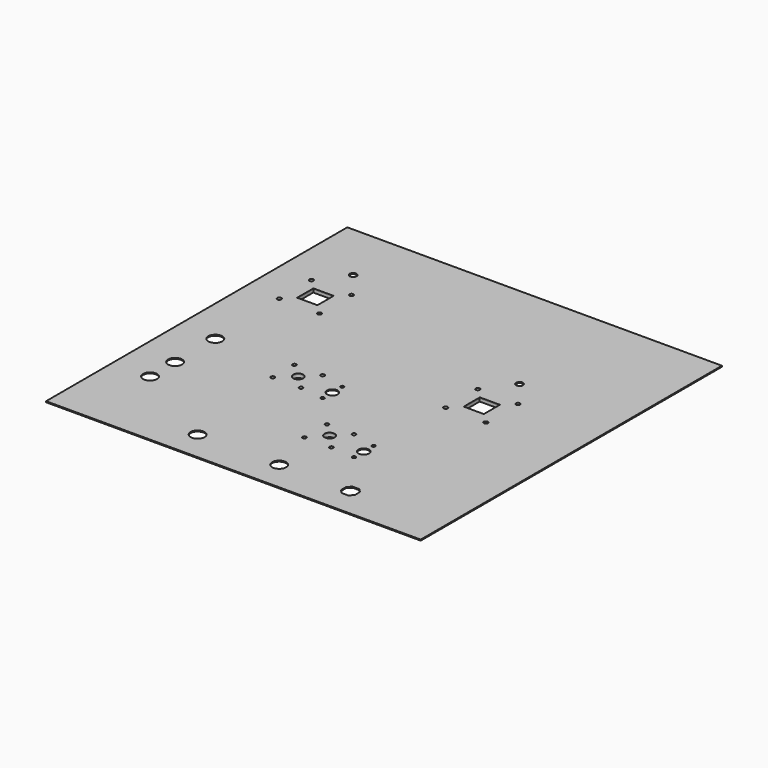
from build123d import *

# Parameters (mm, degrees)
F0_W     = 597
F0_H     = 600
F0_R     = 11.15
F0_R_2   = 2.75
F0_R_3   = 3
F0_R_4   = 8
F0_R_5   = 8.5
F0_R_6   = 3.3
F0_W_2   = 32.3
F0_H_2   = 32.3
F0_R_7   = 5.5
F0_W_3   = 32
F0_H_3   = 32
F1_DEPTH = 1.6
F2_R     = 3
F2_R_2   = 8.5
F2_R_3   = 3.3
F2_W     = 34
F2_H     = 34
F3_DEPTH = 5
F4_R     = 3.3
F4_W     = 34.3
F4_H     = 34.3
F4_R_2   = 3
F4_R_3   = 8.5
F5_DEPTH = 5


with BuildPart() as f1:
    # F0 (on Top) → F1 (new body)
    with BuildSketch(Plane.XY):
        Rectangle(F0_W, F0_H)
        with Locations((-239.0813, -167.15)):
            Circle(F0_R, mode=Mode.SUBTRACT)
        with Locations((-95.05, -252.5)):
            Circle(F0_R, mode=Mode.SUBTRACT)
        with Locations((-239.0813, -117.15)):
            Circle(F0_R, mode=Mode.SUBTRACT)
        with Locations((-239.0813, -37.15)):
            Circle(F0_R, mode=Mode.SUBTRACT)
        with Locations((-35.05, -78.5)):
            Circle(F0_R_2, mode=Mode.SUBTRACT)
        with Locations((-118.4, -73.5)):
            Circle(F0_R_3, mode=Mode.SUBTRACT)
        with Locations((-95.05, -52)):
            Circle(F0_R_4, mode=Mode.SUBTRACT)
        with Locations((-118.4, -30.5)):
            Circle(F0_R_3, mode=Mode.SUBTRACT)
        with Locations((-73.4, -73.5)):
            Circle(F0_R_3, mode=Mode.SUBTRACT)
        with Locations((-35.05, -59)):
            Circle(F0_R_5, mode=Mode.SUBTRACT)
        with Locations((-35.05, -39.5)):
            Circle(F0_R_2, mode=Mode.SUBTRACT)
        with Locations((-73.4, -30.5)):
            Circle(F0_R_3, mode=Mode.SUBTRACT)
        with Locations((34.95, -252.5)):
            Circle(F0_R, mode=Mode.SUBTRACT)
        Polygon((159.5, -247.236544), (159.5, -257.763456), (153.763456, -263.5), (143.236544, -263.5), (137.5, -257.763456), (137.5, -247.236544), (143.236544, -241.5), (153.763456, -241.5), align=None, mode=Mode.SUBTRACT)
        with Locations((13.45, -175.35)):
            Circle(F0_R_3, mode=Mode.SUBTRACT)
        with Locations((34.95, -152)):
            Circle(F0_R_4, mode=Mode.SUBTRACT)
        with Locations((56.45, -175.35)):
            Circle(F0_R_3, mode=Mode.SUBTRACT)
        with Locations((94.95, -178.5)):
            Circle(F0_R_2, mode=Mode.SUBTRACT)
        with Locations((94.95, -159)):
            Circle(F0_R_5, mode=Mode.SUBTRACT)
        with Locations((13.45, -130.35)):
            Circle(F0_R_3, mode=Mode.SUBTRACT)
        with Locations((56.45, -130.35)):
            Circle(F0_R_3, mode=Mode.SUBTRACT)
        with Locations((94.95, -139.5)):
            Circle(F0_R_2, mode=Mode.SUBTRACT)
        with Locations((100.7, -3)):
            Circle(F0_R_6, mode=Mode.SUBTRACT)
        with Locations((164.7, -3)):
            Circle(F0_R_6, mode=Mode.SUBTRACT)
        with Locations((-244.5, 97)):
            Circle(F0_R_6, mode=Mode.SUBTRACT)
        with Locations((-180.5, 97)):
            Circle(F0_R_6, mode=Mode.SUBTRACT)
        with Locations((-212.5, 129)):
            Rectangle(F0_W_2, F0_H_2, mode=Mode.SUBTRACT)
        with Locations((-244.5, 161)):
            Circle(F0_R_6, mode=Mode.SUBTRACT)
        with Locations((-180.5, 161)):
            Circle(F0_R_6, mode=Mode.SUBTRACT)
        with Locations((-212.5, 204.15)):
            Circle(F0_R_7, mode=Mode.SUBTRACT)
        with Locations((132.55, 29.15)):
            Rectangle(F0_W_3, F0_H_3, mode=Mode.SUBTRACT)
        with Locations((100.7, 61)):
            Circle(F0_R_6, mode=Mode.SUBTRACT)
        with Locations((132.7, 104.15)):
            Circle(F0_R_7, mode=Mode.SUBTRACT)
        with Locations((164.7, 61)):
            Circle(F0_R_6, mode=Mode.SUBTRACT)
    extrude(amount=F1_DEPTH)

    # F2 (on Top) → F3 (join)
    with BuildSketch(Plane.XY):
        with BuildLine():
            ThreePointArc((75.45, -197.35), (77.57132, -196.47132), (78.45, -194.35))
            Line((78.45, -194.35), (78.45, -99.742772))
            ThreePointArc((78.45, -99.742772), (78.80056, -98.335481), (79.770311, -97.257084))
            Line((79.770311, -97.257084), (185.379689, -25.892192))
            ThreePointArc((185.379689, -25.892192), (186.34944, -24.813795), (186.7, -23.406504))
            Line((186.7, -23.406504), (186.7, 83.3))
            ThreePointArc((186.7, 83.3), (185.82132, 85.42132), (183.7, 86.3))
            Line((183.7, 86.3), (80.599617, 86.3))
            ThreePointArc((80.599617, 86.3), (78.994692, 85.834603), (77.887718, 84.582809))
            Line((77.887718, 84.582809), (-8.2619, -97.540223))
            ThreePointArc((-8.2619, -97.540223), (-8.477089, -98.165651), (-8.55, -98.823032))
            Line((-8.55, -98.823032), (-8.55, -194.35))
            ThreePointArc((-8.55, -194.35), (-7.67132, -196.47132), (-5.55, -197.35))
            Line((-5.55, -197.35), (75.45, -197.35))
        make_face()
        with Locations((13.45, -175.35)):
            Circle(F2_R, mode=Mode.SUBTRACT)
        with Locations((13.45, -130.35)):
            Circle(F2_R, mode=Mode.SUBTRACT)
        with Locations((34.95, -152)):
            Circle(F2_R_2, mode=Mode.SUBTRACT)
        with Locations((56.45, -175.35)):
            Circle(F2_R, mode=Mode.SUBTRACT)
        with Locations((56.45, -130.35)):
            Circle(F2_R, mode=Mode.SUBTRACT)
        with Locations((100.7, -3)):
            Circle(F2_R_3, mode=Mode.SUBTRACT)
        with Locations((164.7, -3)):
            Circle(F2_R_3, mode=Mode.SUBTRACT)
        with Locations((132.55, 29.15)):
            Rectangle(F2_W, F2_H, mode=Mode.SUBTRACT)
        with Locations((100.7, 61)):
            Circle(F2_R_3, mode=Mode.SUBTRACT)
        with Locations((164.7, 61)):
            Circle(F2_R_3, mode=Mode.SUBTRACT)
    extrude(amount=-F3_DEPTH)

    # F4 (on face) → F5 (join)
    with BuildSketch(Plane(origin=(0, 0, 0), x_dir=(1, 0, 0), z_dir=(0, 0, -1))):
        with BuildLine():
            ThreePointArc((-137.4, 96.975185), (-139.52132, 96.096505), (-140.4, 93.975185))
            Line((-140.4, 93.975185), (-140.4, 3.76251))
            ThreePointArc((-140.4, 3.76251), (-140.783333, 2.295182), (-141.835368, 1.202837))
            Line((-141.835368, 1.202837), (-265.064632, -74.122613))
            ThreePointArc((-265.064632, -74.122613), (-266.116667, -75.214958), (-266.5, -76.682286))
            Line((-266.5, -76.682286), (-266.5, -180))
            ThreePointArc((-266.5, -180), (-265.62132, -182.12132), (-263.5, -183))
            Line((-263.5, -183), (-160.230076, -183))
            ThreePointArc((-160.230076, -183), (-158.731359, -182.598817), (-157.633483, -181.502565))
            Line((-157.633483, -181.502565), (-51.803407, 1.383094))
            ThreePointArc((-51.803407, 1.383094), (-51.502606, 2.107771), (-51.4, 2.885659))
            Line((-51.4, 2.885659), (-51.4, 93.975185))
            ThreePointArc((-51.4, 93.975185), (-52.27868, 96.096505), (-54.4, 96.975185))
            Line((-54.4, 96.975185), (-137.4, 96.975185))
        make_face()
        with Locations((-244.5, -161)):
            Circle(F4_R, mode=Mode.SUBTRACT)
        with Locations((-180.5, -161)):
            Circle(F4_R, mode=Mode.SUBTRACT)
        with Locations((-212.5, -129)):
            Rectangle(F4_W, F4_H, mode=Mode.SUBTRACT)
        with Locations((-244.5, -97)):
            Circle(F4_R, mode=Mode.SUBTRACT)
        with Locations((-180.5, -97)):
            Circle(F4_R, mode=Mode.SUBTRACT)
        with Locations((-118.4, 30.5)):
            Circle(F4_R_2, mode=Mode.SUBTRACT)
        with Locations((-118.4, 73.5)):
            Circle(F4_R_2, mode=Mode.SUBTRACT)
        with Locations((-95.05, 52)):
            Circle(F4_R_3, mode=Mode.SUBTRACT)
        with Locations((-73.4, 30.5)):
            Circle(F4_R_2, mode=Mode.SUBTRACT)
        with Locations((-73.4, 73.5)):
            Circle(F4_R_2, mode=Mode.SUBTRACT)
    extrude(amount=F5_DEPTH)


solid = f1.part
